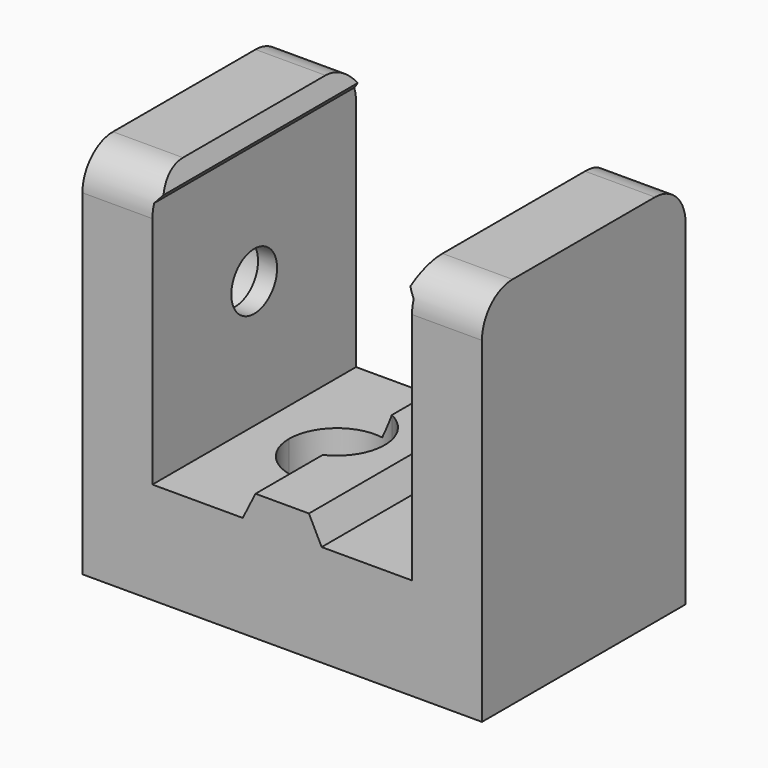
from build123d import *

# Parameters (mm, degrees)
F1_DEPTH  = 20
F2_R      = 3
F4_DEPTH  = 10.001
F5_DEPTH  = 6.5
F6_ANGLE  = -90
F7_R      = 2.25
F8_DEPTH  = 5.5
F9_R      = 3.75
F9_R_2    = 2.25
F10_DEPTH = 4


with BuildPart() as f1:
    # F0 (on Top) → F1 (new body)
    with BuildSketch(Plane.XY):
        Polygon((-15.7, 0), (0, 0), (15.7, 0), (15.7, 29.4), (10.2, 29.4), (9.7, 28), (10.2, 27.4), (10.2, 8), (3.1, 8), (2.1, 10), (0, 10), (-2.1, 10), (-3.1, 8), (-10.2, 8), (-10.2, 27.4), (-9.7, 28), (-10.2, 29.4), (-15.7, 29.4), align=None)
    extrude(amount=F1_DEPTH)

    # F2
    f2_edges = [f1.edges().sort_by_distance(p)[0] for p in [
        (12.95, 29.4, 20),
        (-12.95, 29.4, 20),
        (-12.95, 29.4, 0),
        (12.95, 29.4, 0),
    ]]
    fillet(f2_edges, radius=F2_R)

    # F3 (on face) → F4 (cut, through all)
    with BuildSketch(Plane(origin=(0, 10, 0), x_dir=(-1, 0, 0), z_dir=(0, 1, 0))):
        with BuildLine():
            ThreePointArc((5.95, 10), (4.5551315688, 12.0811655388), (2.1, 11.581929202))
            Line((2.1, 11.581929202), (2.1, 8.418070798))
            ThreePointArc((2.1, 8.418070798), (4.5551315688, 7.9188344612), (5.95, 10))
        make_face()
        with BuildLine():
            Line((2.1, 8.418070798), (2.1, 11.581929202))
            ThreePointArc((2.1, 11.581929202), (1.45, 10), (2.1, 8.418070798))
        make_face()
    extrude(amount=-F4_DEPTH, mode=Mode.SUBTRACT)

    # F3 (on face) → F5 (cut)
    with BuildSketch(Plane(origin=(0, 10, 0), x_dir=(-1, 0, 0), z_dir=(0, 1, 0))):
        with BuildLine():
            ThreePointArc((2.1, 6.6084664236), (5.7077973005, 6.8327851352), (7.45, 10))
            ThreePointArc((7.45, 10), (5.7077973005, 13.1672148648), (2.1, 13.3915335764))
            Line((2.1, 13.3915335764), (2.1, 11.581929202))
            ThreePointArc((2.1, 11.581929202), (4.5551315688, 12.0811655388), (5.95, 10))
            ThreePointArc((5.95, 10), (4.5551315688, 7.9188344612), (2.1, 8.418070798))
            Line((2.1, 8.418070798), (2.1, 6.6084664236))
        make_face()
        with BuildLine():
            Line((2.1, 11.581929202), (2.1, 13.3915335764))
            ThreePointArc((2.1, 13.3915335764), (-0.05, 10), (2.1, 6.6084664236))
            Line((2.1, 6.6084664236), (2.1, 8.418070798))
            ThreePointArc((2.1, 8.418070798), (1.45, 10), (2.1, 11.581929202))
        make_face()
    extrude(amount=-F5_DEPTH, mode=Mode.SUBTRACT)


with BuildPart() as f1_1:
    # F6: moved
    add(f1.part.rotate(Axis((0, 0, 0), (-1, 0, 0)), F6_ANGLE))

    # F7 (on face) → F8 (cut, through all)
    with BuildSketch(Plane.YZ.offset(-10.2)):
        with Locations((-10, 18)):
            Circle(F7_R)
    extrude(amount=-F8_DEPTH, mode=Mode.SUBTRACT)

    # F9 (on face) → F10 (cut)
    with BuildSketch(Plane(origin=(-15.7, 0, 0), x_dir=(0, -1, 0), z_dir=(-1, 0, 0))):
        with Locations((10, 18)):
            Circle(F9_R)
        with Locations((10, 18)):
            Circle(F9_R_2, mode=Mode.SUBTRACT)
    extrude(amount=-F10_DEPTH, mode=Mode.SUBTRACT)


solid = f1_1.part
